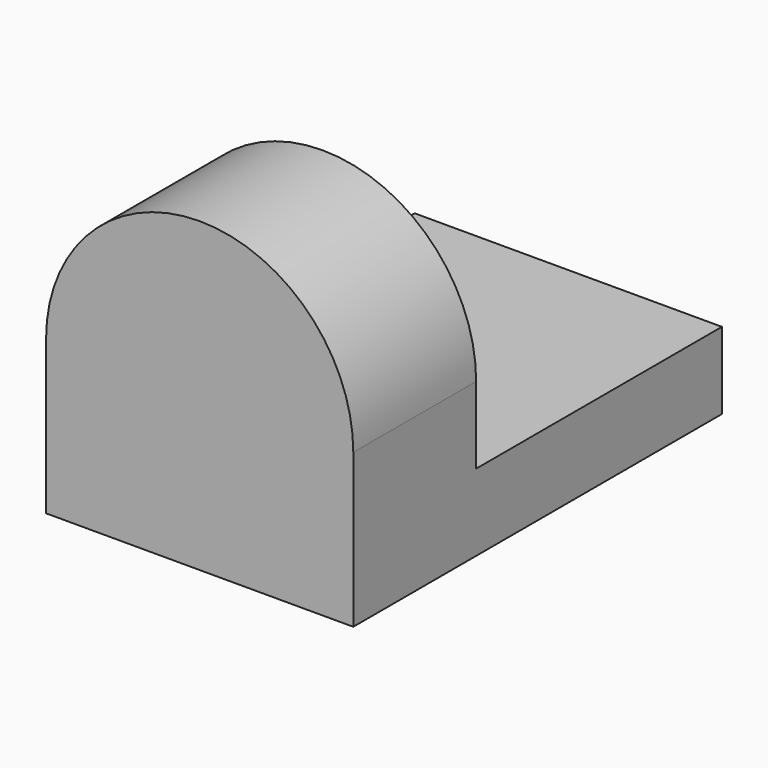
from build123d import *

# Parameters (mm, degrees)
F1_DEPTH = 38.1
F3_DEPTH = 25.4


with BuildPart() as f1:
    # F0 (on Front) → F1 (new body)
    with BuildSketch(Plane.XZ):
        with BuildLine():
            Line((0, 12.7), (0, 0))
            Line((0, 0), (25.4, 0))
            Line((25.4, 0), (25.4, 12.7))
            ThreePointArc((25.4, 12.7), (12.7, 25.4), (0, 12.7))
        make_face()
    extrude(amount=F1_DEPTH)

    # F2 (on Front) → F3 (cut)
    with BuildSketch(Plane.XZ):
        with BuildLine():
            Line((0, 12.7), (0, 6.35))
            Line((0, 6.35), (25.4, 6.35))
            Line((25.4, 6.35), (25.4, 12.7))
            ThreePointArc((25.4, 12.7), (12.7, 25.4), (0, 12.7))
        make_face()
    extrude(amount=F3_DEPTH, mode=Mode.SUBTRACT)


solid = f1.part
